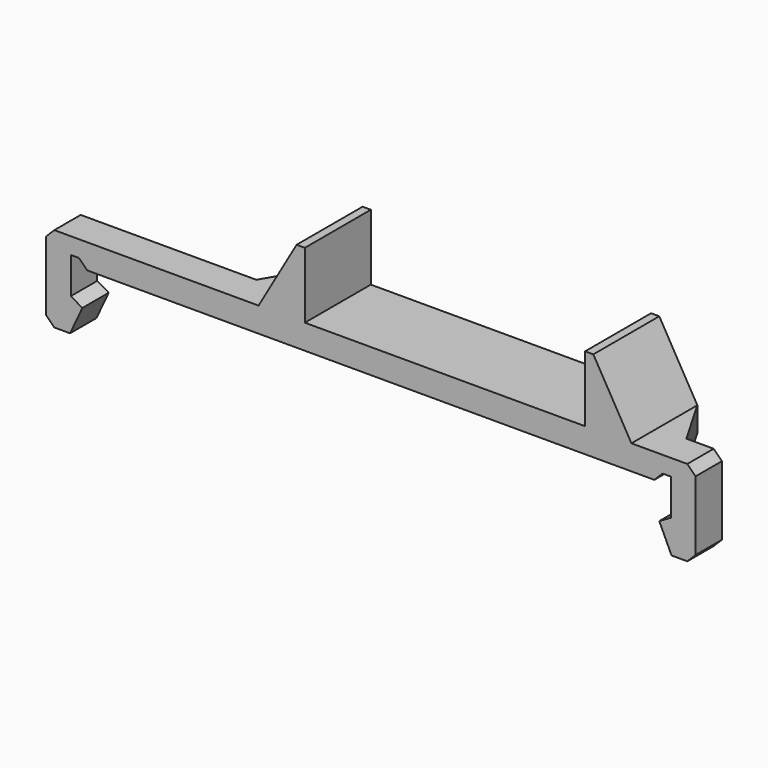
from build123d import *

# Parameters (mm, degrees)
F2_DEPTH = 12.5
F3_DEPTH = 12.5


with BuildPart() as f2:
    # F0 (on Front) → F2 (new body, symmetric)
    with BuildSketch(Plane.XZ):
        Polygon((-18.2, -1.7), (-18.2, 0), (-18.2, 0.5), (-17.7, 0.5), (-17.2, 0), (0, 0), (17.2, 0), (17.7, 0.5), (18.2, 0.5), (18.2, 0), (18.2, -1.7), (17.5, -2.104145), (18.244159, -3.7), (19.2, -3.7), (19.7, -3.2), (19.7, 0), (19.7, 1), (19.2, 1.5), (15.809401, 1.5), (13, 1.5), (0, 1.5), (-4, 1.5), (-6.809401, 1.5), (-19.2, 1.5), (-19.7, 1), (-19.7, 0), (-19.7, -3.2), (-19.2, -3.7), (-18.244159, -3.7), (-17.5, -2.104145), align=None)
        Polygon((-4.5, 5.5), (-6.809401, 1.5), (-4, 1.5), (-4, 5.5), align=None)
        Polygon((13, 5.5), (13, 1.5), (15.809401, 1.5), (13.5, 5.5), align=None)
    extrude(amount=F2_DEPTH, both=True)

    # F1 (on Top) → F3 (intersect, symmetric)
    with BuildSketch(Plane.XY):
        Polygon((-8.541452, 0), (-19.7, 0), (-19.7, -2), (19.7, -2), (19.7, 0), (17.541452, 0), (15.809401, 3), (-6.809401, 3), align=None)
    extrude(amount=F3_DEPTH, both=True, mode=Mode.INTERSECT)


solid = f2.part
